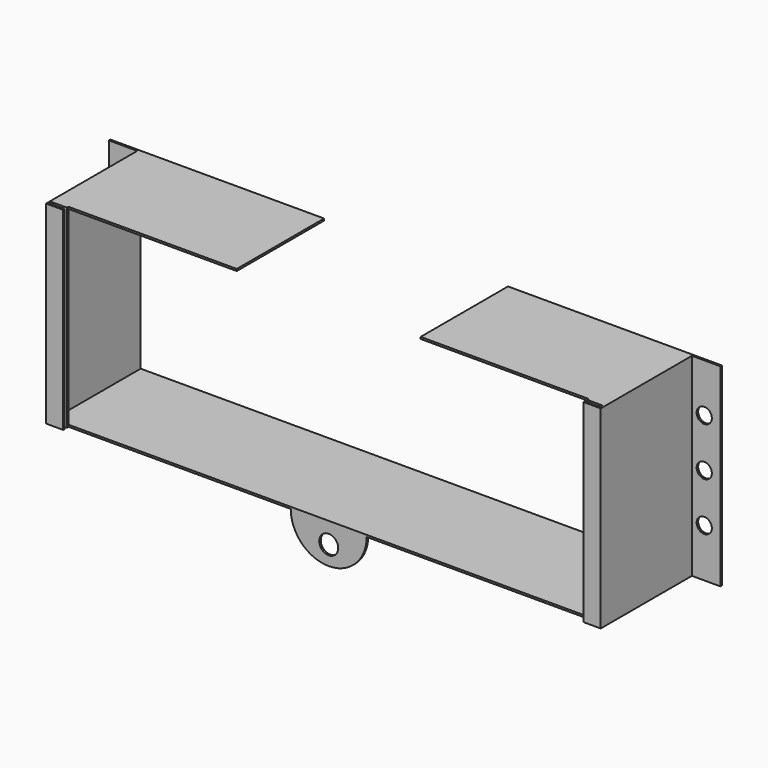
from build123d import *

# Parameters (mm, degrees)
F1_DEPTH  = 102
F2_W      = 290
F2_H      = 1
F3_DEPTH  = 57.5
F2_R      = 4
F4_DEPTH  = 1
F5_W      = 3
F5_H      = 1.5
F6_DEPTH  = 1
F7_R      = 5
F8_DEPTH  = 1
F10_DEPTH = 61


with BuildPart() as f1:
    # F0 (on Top) → F1 (new body)
    with BuildSketch(Plane.XY):
        Polygon((-146, 60), (-146, 0), (-137, 0), (-137, 1), (-145, 1), (-145, 2.5), (-137, 2.5), (-137, 3.5), (-145, 3.5), (-145, 61), (-161, 61), (-161, 60), align=None)
    extrude(amount=F1_DEPTH)



with BuildPart() as f1b:
    # F0 (on Top) → F1, piece 2 (new body)
    with BuildSketch(Plane.XY):
        Polygon((137, 1), (137, 0), (146, 0), (146, 60), (161, 60), (161, 61), (145, 61), (145, 3.5), (137, 3.5), (137, 2.5), (145, 2.5), (145, 1), align=None)
    extrude(amount=F1_DEPTH)


with BuildPart() as f1_1:
    add(f1.part)

    add(f1b.part)  # F3 merges F1b
    # F2 (on face) → F3 (join)
    with BuildSketch(Plane(origin=(0, 61, 0), x_dir=(-1, 0, 0), z_dir=(0, 1, 0))):
        with Locations((0, 101.5)):
            Rectangle(F2_W, F2_H)
        with Locations((0, 0.5)):
            Rectangle(F2_W, F2_H)
    extrude(amount=-F3_DEPTH)

    # F2 (on face) → F4 (cut, through all)
    with BuildSketch(Plane(origin=(0, 61, 0), x_dir=(-1, 0, 0), z_dir=(0, 1, 0))):
        with Locations((-152.5, 76.5)):
            Circle(F2_R)
        with Locations((-152.5, 51)):
            Circle(F2_R)
        with Locations((-152.5, 25.5)):
            Circle(F2_R)
        with Locations((152.5, 76.5)):
            Circle(F2_R)
        with Locations((152.5, 51)):
            Circle(F2_R)
        with Locations((152.5, 25.5)):
            Circle(F2_R)
    extrude(amount=-F4_DEPTH, mode=Mode.SUBTRACT)

    # F5 (on face) → F6 (join)
    with BuildSketch(Plane(origin=(0, 0, 0), x_dir=(1, 0, 0), z_dir=(0, 0, -1))):
        with Locations((-143.5, -1.75)):
            Rectangle(F5_W, F5_H)
        with Locations((143.5, -1.75)):
            Rectangle(F5_W, F5_H)
    extrude(amount=-F6_DEPTH)

    # F7 (on face) → F8 (join)
    with BuildSketch(Plane.XZ.offset(-3.5)):
        with BuildLine():
            Line((20, 0), (-20, 0))
            ThreePointArc((-20, 0), (0, -20), (20, 0))
        make_face()
        with Locations((0, -10)):
            Circle(F7_R, mode=Mode.SUBTRACT)
    extrude(amount=-F8_DEPTH)

    # F9 (on Front) → F10 (cut)
    with BuildSketch(Plane.XZ):
        Polygon((48.3850128949, 102.0231251585), (-48.4258194991, 102.1056490811), (-48.4258194991, 100.3182497944), (48.3850128949, 100.3182497944), align=None)
    extrude(amount=-F10_DEPTH, mode=Mode.SUBTRACT)


solid = f1_1.part
